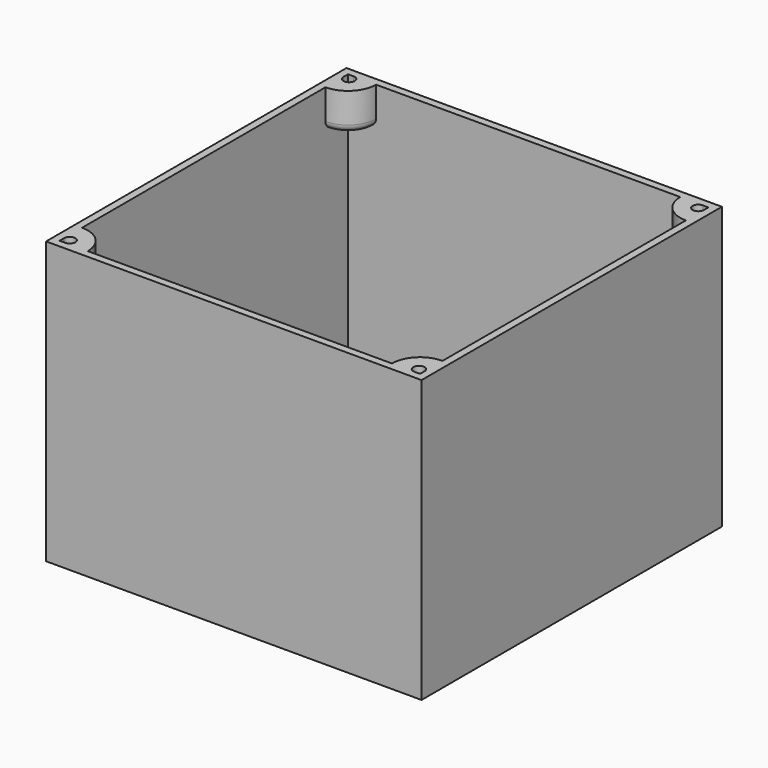
from build123d import *

# Parameters (mm, degrees)
F0_W     = 100
F0_H     = 100
F0_W_2   = 96
F0_H_2   = 96
F1_DEPTH = 75
F0_R     = 11.5
F2_DEPTH = 2
F4_DEPTH = 10
F5_R     = 2
F6_DEPTH = 10


with BuildPart() as f1:
    # F0 (on Top) → F1 (new body)
    with BuildSketch(Plane.XY):
        Rectangle(F0_W, F0_H)
        Rectangle(F0_W_2, F0_H_2, mode=Mode.SUBTRACT)
    extrude(amount=F1_DEPTH)

    # F0 (on Top) → F2 (join)
    with BuildSketch(Plane.XY):
        Rectangle(F0_W_2, F0_H_2)
        with Locations((28, 28)):
            Circle(F0_R, mode=Mode.SUBTRACT)
    extrude(amount=F2_DEPTH)

    # F3 (on face) → F4 (join)
    with BuildSketch(Plane.XY.offset(75)):
        with BuildLine():
            Line((46.5, 48), (40.5, 48))
            ThreePointArc((40.5, 48), (42.696699, 42.696699), (48, 40.5))
            Line((48, 40.5), (48, 46.5))
            ThreePointArc((48, 46.5), (45.43934, 45.43934), (46.5, 48))
        make_face()
        with BuildLine():
            Line((48, -46.5), (48, -40.5))
            ThreePointArc((48, -40.5), (42.696699, -42.696699), (40.5, -48))
            Line((40.5, -48), (46.5, -48))
            ThreePointArc((46.5, -48), (45.43934, -45.43934), (48, -46.5))
        make_face()
        with BuildLine():
            ThreePointArc((-40.5, -48), (-42.696699, -42.696699), (-48, -40.5))
            Line((-48, -40.5), (-48, -46.5))
            ThreePointArc((-48, -46.5), (-46.5, -45), (-45, -46.5))
            ThreePointArc((-45, -46.5), (-45.43934, -47.56066), (-46.5, -48))
            Line((-46.5, -48), (-40.5, -48))
        make_face()
        with BuildLine():
            ThreePointArc((-48, 40.5), (-42.696699, 42.696699), (-40.5, 48))
            Line((-40.5, 48), (-46.5, 48))
            ThreePointArc((-46.5, 48), (-45.43934, 47.56066), (-45, 46.5))
            ThreePointArc((-45, 46.5), (-46.5, 45), (-48, 46.5))
            Line((-48, 46.5), (-48, 40.5))
        make_face()
    extrude(amount=-F4_DEPTH)

    # F5
    f5_edges = [f1.edges().sort_by_distance(p)[0] for p in [
        (-42.696699, -42.696699, 65),
        (-42.696699, 42.696699, 65),
        (42.696699, 42.696699, 65),
        (42.696699, -42.696699, 65),
    ]]
    fillet(f5_edges, radius=F5_R)

    # F3 (on face) → F6 (cut)
    with BuildSketch(Plane.XY.offset(75)):
        with BuildLine():
            ThreePointArc((-45, 46.5), (-45.43934, 47.56066), (-46.5, 48))
            ThreePointArc((-46.5, 48), (-47.56066, 47.56066), (-48, 46.5))
            ThreePointArc((-48, 46.5), (-46.5, 45), (-45, 46.5))
        make_face()
        with BuildLine():
            ThreePointArc((48, 46.5), (47.56066, 47.56066), (46.5, 48))
            ThreePointArc((46.5, 48), (45.43934, 45.43934), (48, 46.5))
        make_face()
        with BuildLine():
            ThreePointArc((46.5, -48), (47.56066, -47.56066), (48, -46.5))
            ThreePointArc((48, -46.5), (45.43934, -45.43934), (46.5, -48))
        make_face()
        with BuildLine():
            ThreePointArc((-45, -46.5), (-46.5, -45), (-48, -46.5))
            ThreePointArc((-48, -46.5), (-47.56066, -47.56066), (-46.5, -48))
            ThreePointArc((-46.5, -48), (-45.43934, -47.56066), (-45, -46.5))
        make_face()
    extrude(amount=-F6_DEPTH, mode=Mode.SUBTRACT)


solid = f1.part
